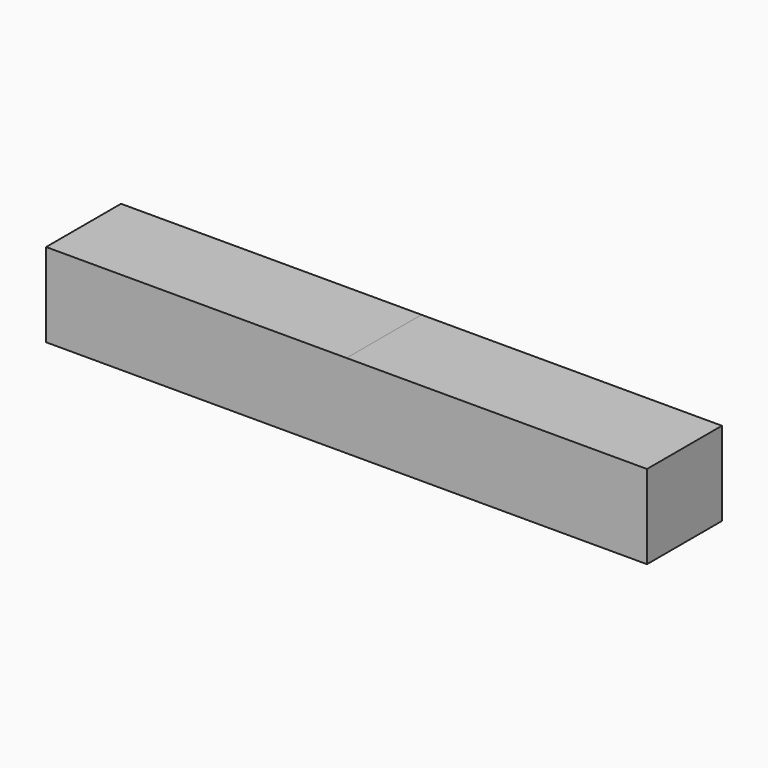
from build123d import *

# Parameters (mm, degrees)
F0_W      = 87.099492
F0_H      = 77.984429
F1_DEPTH  = 279.4
F1_FACE_W = 87.099492
F1_FACE_H = 77.98443
F2_DEPTH  = 279.4


with BuildPart() as f1:
    # F0 (on Right) → F1 (new body)
    with BuildSketch(Plane.YZ):
        with Locations((-1.519177, 2.023649)):
            Rectangle(F0_W, F0_H)
    extrude(amount=-F1_DEPTH)

    # F1_face (on face) → F2 (join)
    with BuildSketch(Plane(origin=(0, -1.519177, 2.023648), x_dir=(0, 1, 0), z_dir=(1, 0, 0))):
        Rectangle(F1_FACE_W, F1_FACE_H)
    extrude(amount=F2_DEPTH)


solid = f1.part
